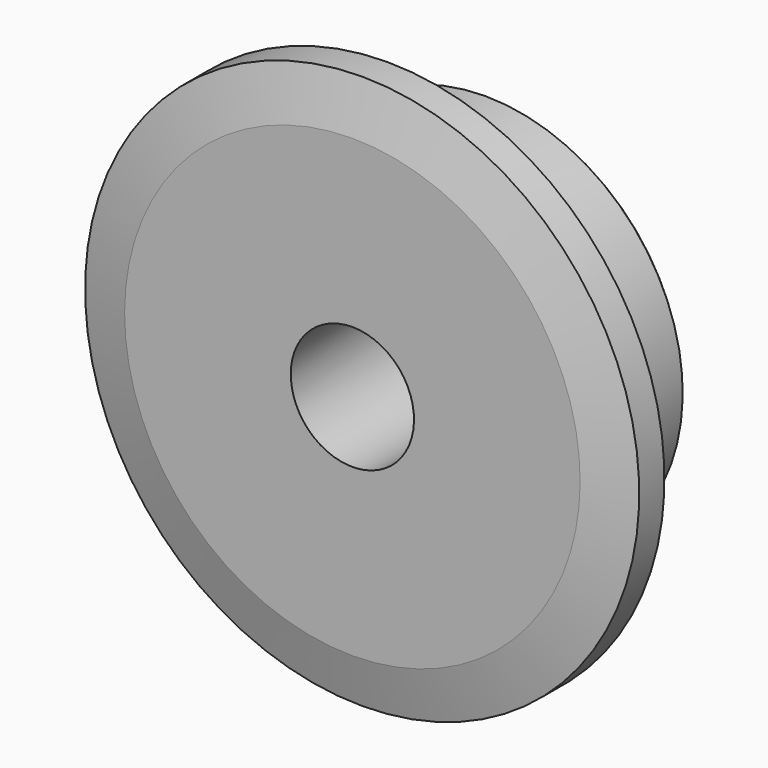
from build123d import *

# Parameters (mm, degrees)
F0_W     = 15.0114
F0_H     = 17.4625
F0_W_2   = 7.2136
F0_H_2   = 10.287
F2_R     = 1.5875
F3_SIZE  = 0.79375
F4_SIZE2 = 6.35
F4_SIZE  = 1.5748


with BuildPart() as f1:
    # F0 (on Right) → F1 (revolve)
    with BuildSketch(Plane.YZ):
        with Locations((14.7193, 16.66875)):
            Rectangle(F0_W, F0_H)
        with Locations((3.6068, 16.66875)):
            Rectangle(F0_W_2, F0_H)
        with Locations((3.6068, 30.5435)):
            Rectangle(F0_W_2, F0_H_2)
    revolve(axis=Axis((0, 9.448286066, 0), (0, 1, 0)))

    # F2
    f2_edges = [f1.edges().sort_by_distance(p)[0] for p in [
        (0, 7.2136, -25.4),
    ]]
    fillet(f2_edges, radius=F2_R)

    # F3
    f3_edges = [f1.edges().sort_by_distance(p)[0] for p in [
        (0, 22.225, -7.9375),
        (0, 22.225, -25.4),
    ]]
    chamfer(f3_edges, length=F3_SIZE)

    # F4
    f4_edges = [f1.edges().sort_by_distance(p)[0] for p in [
        (0, 0, -35.687),
        (0, 7.2136, -35.687),
    ]]
    f4_side = f1.faces().sort_by_distance((0, 3.6068, -35.687))[0]
    chamfer(f4_edges, length=F4_SIZE, length2=F4_SIZE2, reference=f4_side)


solid = f1.part
